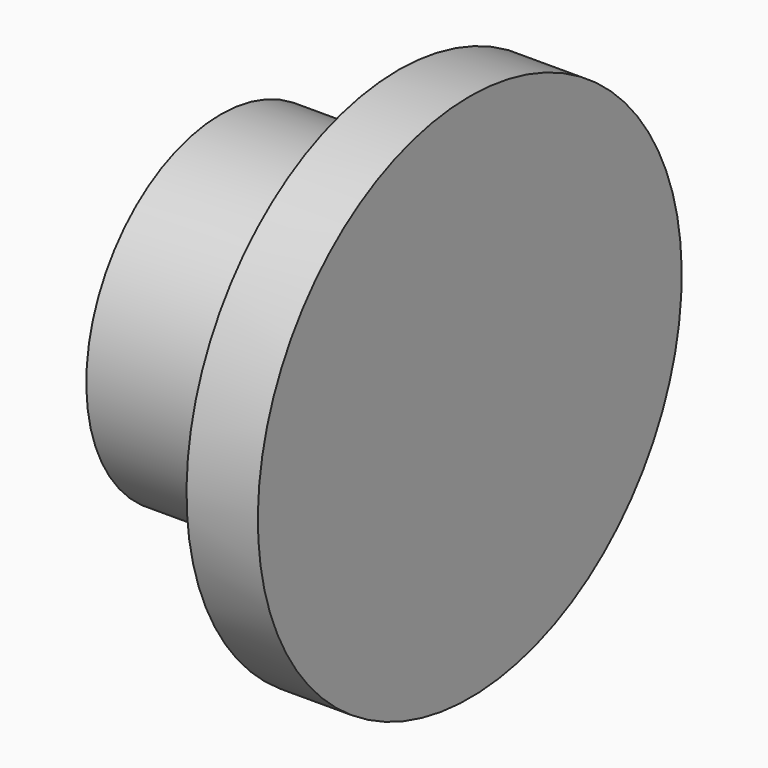
from build123d import *

# Parameters (mm, degrees)
F1_FACE_R   = 12.970532
F1_FACE_R_2 = 9.519026
F2_DEPTH    = 25.4


with BuildPart() as f1:
    # F0 (on Front) → F1 (revolve)
    with BuildSketch(Plane.XZ):
        with BuildLine():
            Line((-44.625349, 12.970532), (-44.625349, 9.519026))
            Line((-44.625349, 9.519026), (-12.389277, 9.519026))
            ThreePointArc((-12.389277, 9.519026), (-9.675302, 10.499395), (-6.961326, 9.519026))
            Line((-6.961326, 9.519026), (-5.220648, 9.519026))
            Line((-5.220648, 9.519026), (-5.220648, 0))
            Line((-5.220648, 0), (0, 0))
            Line((0, 0), (0, 20.448796))
            Line((0, 20.448796), (-5.508274, 20.448796))
            Line((-5.508274, 20.448796), (-5.508274, 12.970532))
            Line((-5.508274, 12.970532), (-44.625349, 12.970532))
        make_face()
    revolve(axis=Axis((-2.610324, 0, 0), (1, 0, 0)))

    # F1_face (on face) → F2 (cut)
    with BuildSketch(Plane(origin=(-44.625349, 0, 0), x_dir=(0, -1, 0), z_dir=(-1, 0, 0))):
        Circle(F1_FACE_R)
        Circle(F1_FACE_R_2, mode=Mode.SUBTRACT)
    extrude(amount=-F2_DEPTH, mode=Mode.SUBTRACT)


solid = f1.part
